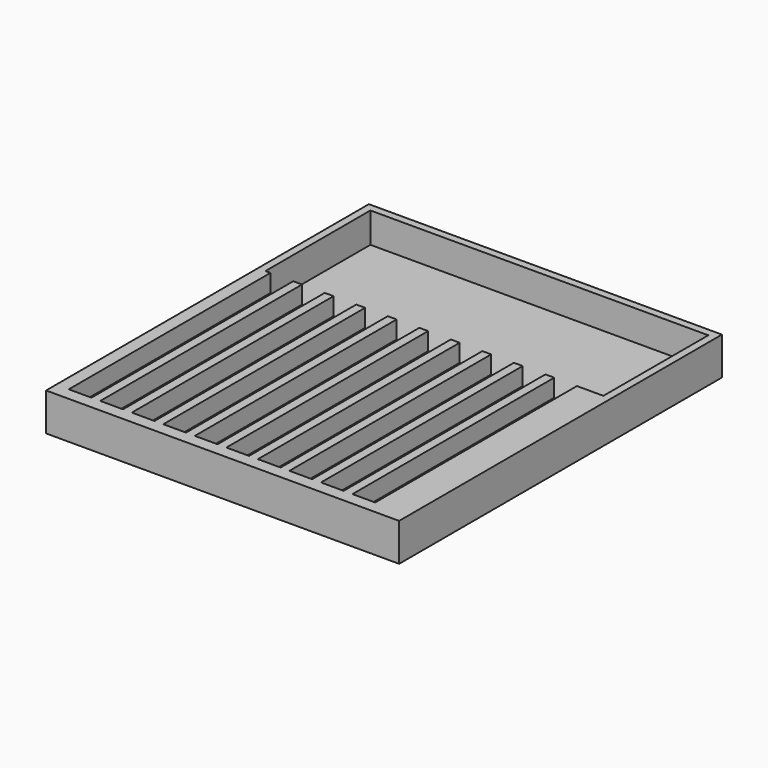
from build123d import *

# Parameters (mm, degrees)
F0_W     = 140
F0_H     = 160
F1_DEPTH = 15
F2_W     = 134
F2_H     = 52
F3_DEPTH = 12
F4_W     = 9
F4_H     = 100
F5_DEPTH = 7


with BuildPart() as f1:
    # F0 (on Top) → F1 (new body)
    with BuildSketch(Plane.XY):
        with Locations((14.341742, -25.477314)):
            Rectangle(F0_W, F0_H)
        with Locations((14.341742, -25.477314)):
            Rectangle(F0_W, F0_H)
    extrude(amount=F1_DEPTH)

    # F2 (on face) → F3 (cut)
    with BuildSketch(Plane.XY.offset(15)):
        with Locations((14.341742, 25.522686)):
            Rectangle(F2_W, F2_H)
    extrude(amount=-F3_DEPTH, mode=Mode.SUBTRACT)

    # F4 (on face) → F5 (cut)
    with BuildSketch(Plane.XY.offset(15)):
        with Locations((-46.158258, -50.477314)):
            Rectangle(F4_W, F4_H)
        with Locations((-33.658258, -50.477314)):
            Rectangle(F4_W, F4_H)
        with Locations((-8.658258, -50.477314)):
            Rectangle(F4_W, F4_H)
        with Locations((3.841742, -50.477314)):
            Rectangle(F4_W, F4_H)
        with Locations((28.841742, -50.477314)):
            Rectangle(F4_W, F4_H)
        with Locations((41.341742, -50.477314)):
            Rectangle(F4_W, F4_H)
        with Locations((53.841742, -50.477314)):
            Rectangle(F4_W, F4_H)
        with Locations((66.341742, -50.477314)):
            Rectangle(F4_W, F4_H)
        with Locations((16.341742, -50.477314)):
            Rectangle(F4_W, F4_H)
        with Locations((-21.158258, -50.477314)):
            Rectangle(F4_W, F4_H)
    extrude(amount=-F5_DEPTH, mode=Mode.SUBTRACT)


solid = f1.part
